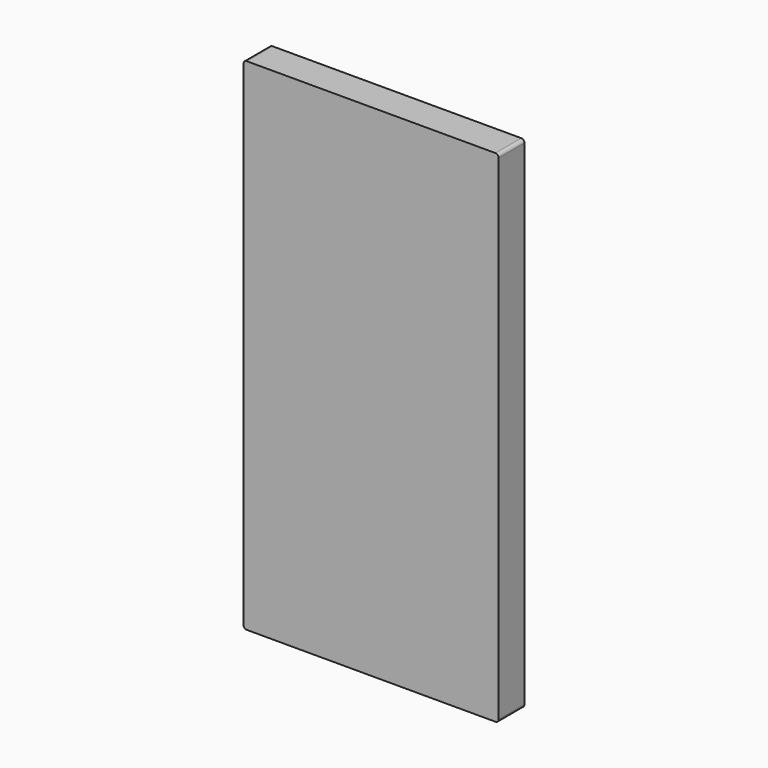
from build123d import *

# Parameters (mm, degrees)
F1_DEPTH = 0.75
F2_DEPTH = 0.75
F3_DEPTH = 0.25


with BuildPart() as f1:
    # F0 (on Front) → F1 (new body)
    with BuildSketch(Plane.XZ):
        with BuildLine():
            Line((3.85, 7.75), (-3.85, 7.75))
            ThreePointArc((-3.85, 7.75), (-3.9207106781, 7.7207106781), (-3.95, 7.65))
            Line((-3.95, 7.65), (-3.95, -7.65))
            ThreePointArc((-3.95, -7.65), (-3.9207106781, -7.7207106781), (-3.85, -7.75))
            Line((-3.85, -7.75), (3.85, -7.75))
            ThreePointArc((3.85, -7.75), (3.9207106781, -7.7207106781), (3.95, -7.65))
            Line((3.95, -7.65), (3.95, 7.65))
            ThreePointArc((3.95, 7.65), (3.9207106781, 7.7207106781), (3.85, 7.75))
        make_face()
        with BuildLine():
            ThreePointArc((-3.7, 7.4), (-3.6707106781, 7.4707106781), (-3.6, 7.5))
            Line((-3.6, 7.5), (3.6, 7.5))
            ThreePointArc((3.6, 7.5), (3.6707106781, 7.4707106781), (3.7, 7.4))
            Line((3.7, 7.4), (3.7, -7.4))
            ThreePointArc((3.7, -7.4), (3.6707106781, -7.4707106781), (3.6, -7.5))
            Line((3.6, -7.5), (-3.6, -7.5))
            ThreePointArc((-3.6, -7.5), (-3.6707106781, -7.4707106781), (-3.7, -7.4))
            Line((-3.7, -7.4), (-3.7, 7.4))
        make_face(mode=Mode.SUBTRACT)
        with BuildLine():
            Line((3.6, 7.5), (-3.6, 7.5))
            ThreePointArc((-3.6, 7.5), (-3.6707106781, 7.4707106781), (-3.7, 7.4))
            Line((-3.7, 7.4), (-3.7, -7.4))
            ThreePointArc((-3.7, -7.4), (-3.6707106781, -7.4707106781), (-3.6, -7.5))
            Line((-3.6, -7.5), (3.6, -7.5))
            ThreePointArc((3.6, -7.5), (3.6707106781, -7.4707106781), (3.7, -7.4))
            Line((3.7, -7.4), (3.7, 7.4))
            ThreePointArc((3.7, 7.4), (3.6707106781, 7.4707106781), (3.6, 7.5))
        make_face()
    extrude(amount=F1_DEPTH)

    # F0 (on Front) → F2 (join)
    with BuildSketch(Plane.XZ):
        with BuildLine():
            Line((3.85, 7.75), (-3.85, 7.75))
            ThreePointArc((-3.85, 7.75), (-3.9207106781, 7.7207106781), (-3.95, 7.65))
            Line((-3.95, 7.65), (-3.95, -7.65))
            ThreePointArc((-3.95, -7.65), (-3.9207106781, -7.7207106781), (-3.85, -7.75))
            Line((-3.85, -7.75), (3.85, -7.75))
            ThreePointArc((3.85, -7.75), (3.9207106781, -7.7207106781), (3.95, -7.65))
            Line((3.95, -7.65), (3.95, 7.65))
            ThreePointArc((3.95, 7.65), (3.9207106781, 7.7207106781), (3.85, 7.75))
        make_face()
        with BuildLine():
            ThreePointArc((-3.7, 7.4), (-3.6707106781, 7.4707106781), (-3.6, 7.5))
            Line((-3.6, 7.5), (3.6, 7.5))
            ThreePointArc((3.6, 7.5), (3.6707106781, 7.4707106781), (3.7, 7.4))
            Line((3.7, 7.4), (3.7, -7.4))
            ThreePointArc((3.7, -7.4), (3.6707106781, -7.4707106781), (3.6, -7.5))
            Line((3.6, -7.5), (-3.6, -7.5))
            ThreePointArc((-3.6, -7.5), (-3.6707106781, -7.4707106781), (-3.7, -7.4))
            Line((-3.7, -7.4), (-3.7, 7.4))
        make_face(mode=Mode.SUBTRACT)
    extrude(amount=F2_DEPTH)

    # F0 (on Front) → F3 (join)
    with BuildSketch(Plane.XZ):
        with BuildLine():
            Line((3.85, 7.75), (-3.85, 7.75))
            ThreePointArc((-3.85, 7.75), (-3.9207106781, 7.7207106781), (-3.95, 7.65))
            Line((-3.95, 7.65), (-3.95, -7.65))
            ThreePointArc((-3.95, -7.65), (-3.9207106781, -7.7207106781), (-3.85, -7.75))
            Line((-3.85, -7.75), (3.85, -7.75))
            ThreePointArc((3.85, -7.75), (3.9207106781, -7.7207106781), (3.95, -7.65))
            Line((3.95, -7.65), (3.95, 7.65))
            ThreePointArc((3.95, 7.65), (3.9207106781, 7.7207106781), (3.85, 7.75))
        make_face()
        with BuildLine():
            ThreePointArc((-3.7, 7.4), (-3.6707106781, 7.4707106781), (-3.6, 7.5))
            Line((-3.6, 7.5), (3.6, 7.5))
            ThreePointArc((3.6, 7.5), (3.6707106781, 7.4707106781), (3.7, 7.4))
            Line((3.7, 7.4), (3.7, -7.4))
            ThreePointArc((3.7, -7.4), (3.6707106781, -7.4707106781), (3.6, -7.5))
            Line((3.6, -7.5), (-3.6, -7.5))
            ThreePointArc((-3.6, -7.5), (-3.6707106781, -7.4707106781), (-3.7, -7.4))
            Line((-3.7, -7.4), (-3.7, 7.4))
        make_face(mode=Mode.SUBTRACT)
    extrude(amount=-F3_DEPTH)


solid = f1.part
